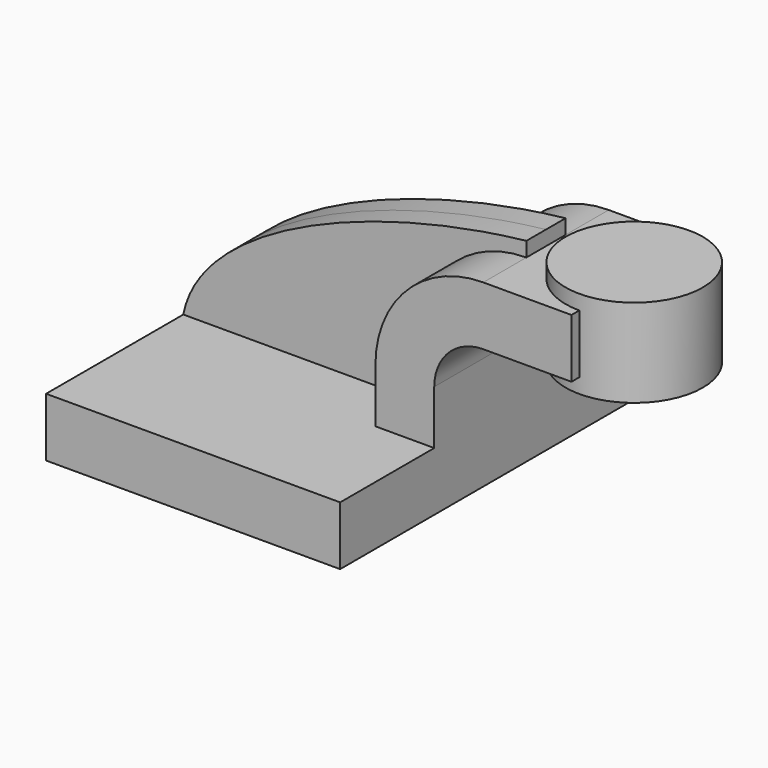
from build123d import *

# Parameters (mm, degrees)
F1_DEPTH = 63.5
F0_W     = 28.575
F0_H     = 19.05
F2_DEPTH = 25.4
F3_DEPTH = 7.9375


with BuildPart() as f1:
    # F0 (on Front) → F1 (new body, symmetric)
    with BuildSketch(Plane.XZ):
        Polygon((-47.625, 9.525), (-47.625, -9.525), (47.625, -9.525), (47.625, 9.525), (28.575, 9.525), align=None)
    extrude(amount=F1_DEPTH, both=True)

    # F0 (on Front) → F2 (join, symmetric)
    with BuildSketch(Plane.XZ):
        with BuildLine():
            Line((28.575, 9.525), (47.625, 9.525))
            Line((47.625, 9.525), (47.625, 27.0002))
            ThreePointArc((47.625, 27.0002), (52.27468, 38.22552), (63.5, 42.8752))
            Line((63.5, 42.8752), (63.5, 61.9252))
            ThreePointArc((63.5, 61.9252), (38.804296, 51.695904), (28.575, 27.0002))
            Line((28.575, 27.0002), (28.575, 9.525))
        make_face()
        with Locations((77.7875, 52.4002)):
            Rectangle(F0_W, F0_H)
    extrude(amount=F2_DEPTH, both=True)

    # F0 (on Front) → F3 (join, symmetric)
    with BuildSketch(Plane.XZ):
        with BuildLine():
            add(Edge.make_bspline(
                [(-47.625, 9.525), (-41.878503, 39.32336), (13.729675, 61.214211), (63.5, 66.675)],
                knots=[0, 0, 0, 0, 124.959546, 124.959546, 124.959546, 124.959546], degree=3))
            Line((-47.625, 9.525), (28.575, 9.525))
            Line((28.575, 9.525), (28.575, 27.0002))
            ThreePointArc((28.575, 27.0002), (38.804296, 51.695904), (63.5, 61.9252))
            Line((63.5, 61.9252), (63.5, 66.675))
        make_face()
    extrude(amount=F3_DEPTH, both=True)

    # F0 (on Front) → F4 (revolve)
    with BuildSketch(Plane.XZ):
        Polygon((114.3, 66.675), (92.075, 66.675), (92.075, 61.9252), (92.075, 42.8752), (92.075, 38.1), (114.3, 38.1), align=None)
    revolve(axis=Axis((92.075, 0, 52.3875), (0, 0, 1)))


solid = f1.part
